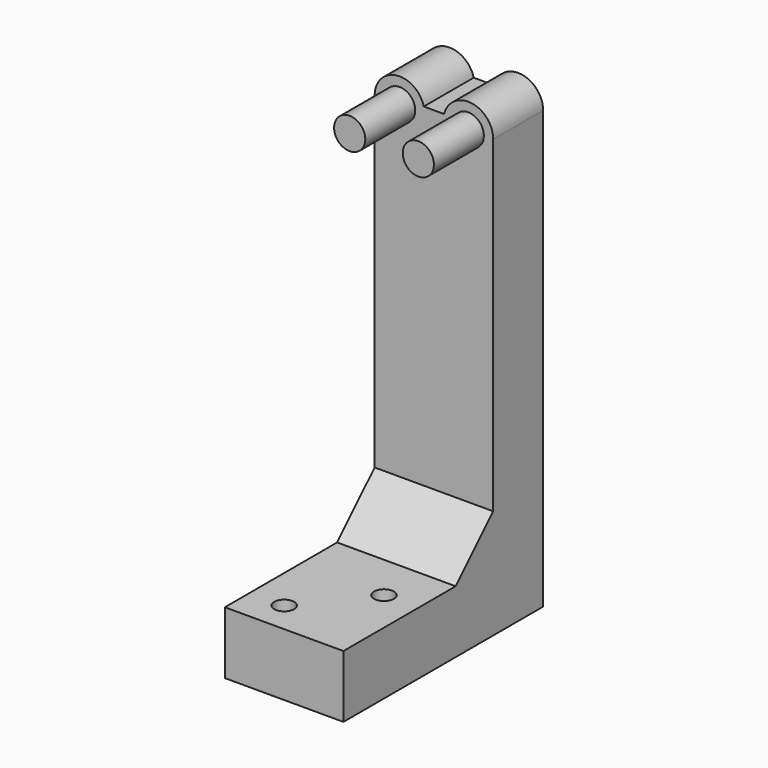
from build123d import *

# Parameters (mm, degrees)
PAD003_DEPTH    = 10
SKETCH012_W     = 19
SKETCH012_H     = 10
PAD004_DEPTH    = 30
SKETCH013_R     = 1.6
POCKET006_DEPTH = 10.001
PAD005_DEPTH    = 19
SKETCH015_R     = 2.5
PAD006_DEPTH    = 10


with BuildPart() as part:
    # Sketch010 → Pad003 (new body)
    with BuildSketch(Plane.XZ):
        with BuildLine():
            Line((9.5, 0), (9.5, 70))
            ThreePointArc((9.5, 70), (6.0040171699, 73.9681187851), (1.6270166538, 71))
            Line((-1.6270166538, 71), (1.6270166538, 71))
            ThreePointArc((-1.6270166538, 71), (-6.0040171699, 73.9681187851), (-9.5, 70))
            Line((-9.5, 70), (-9.5, 0))
            Line((-9.5, 0), (9.5, 0))
        make_face()
    extrude(amount=PAD003_DEPTH)

    # Sketch012 (on Face8 of Pad003) → Pad004 (join)
    with BuildSketch(Plane.XZ.offset(10)):
        with Locations((0, 5)):
            Rectangle(SKETCH012_W, SKETCH012_H)
    extrude(amount=PAD004_DEPTH)

    # Sketch013 (on Face6 of Pad004) → Pocket006 (cut, through all)
    with BuildSketch(Plane(origin=(0, 0, 10), x_dir=(-1, 0, 0), z_dir=(0, 0, 1))):
        with Locations((-4, 25)):
            Circle(SKETCH013_R)
        with Locations((4, 35)):
            Circle(SKETCH013_R)
    extrude(amount=-POCKET006_DEPTH, mode=Mode.SUBTRACT)

    # Sketch014 (on Face10 of Pocket006) → Pad005 (join)
    with BuildSketch(Plane(origin=(9.5, 0, 0), x_dir=(0, 0, 1), z_dir=(1, 0, 0))):
        Polygon((10, 17.5173385434), (17.517341, 10), (10, 10), align=None)
    extrude(amount=-PAD005_DEPTH)

    # Sketch015 (on Face4 of Pad005) → Pad006 (join)
    with BuildSketch(Plane.XZ.offset(10)):
        with Locations((-5.5, 70)):
            Circle(SKETCH015_R)
        with Locations((5.5, 70)):
            Circle(SKETCH015_R)
    extrude(amount=PAD006_DEPTH)


solid = part.part
